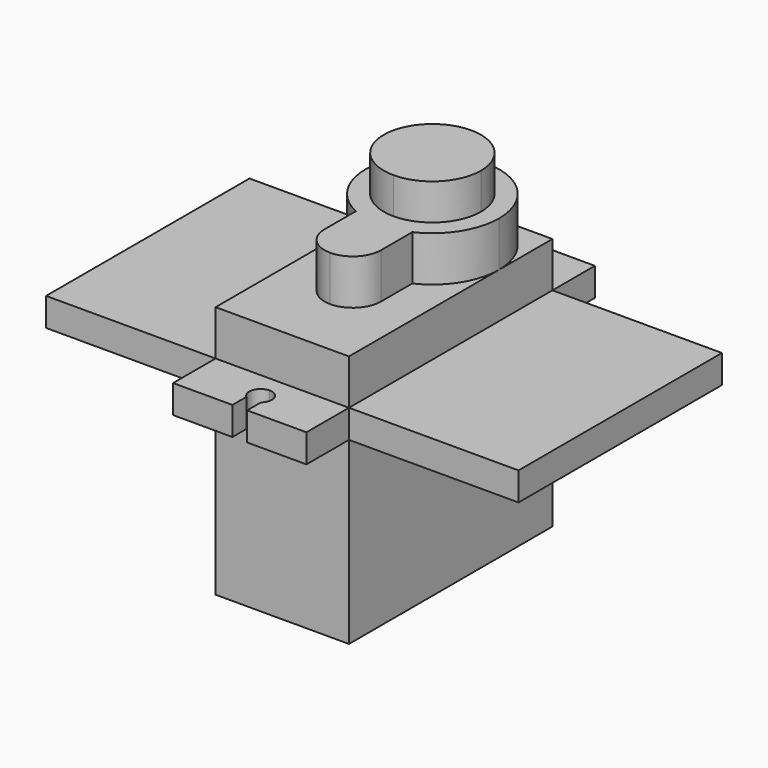
from build123d import *

# Parameters (mm, degrees)
F1_DEPTH  = 15.9
F2_DEPTH  = 2.5
F5_DEPTH  = 4
F8_DEPTH  = 4
F11_DEPTH = 3.2
F12_W     = 22.5
F12_H     = 2.5
F13_DEPTH = 15
F14_W     = 22.5
F14_H     = 2.5
F15_DEPTH = 15


with BuildPart() as f1:
    # F0 (on Top) → F1 (new body)
    with BuildSketch(Plane.XY):
        with BuildLine():
            ThreePointArc((-5.9, 27.2), (-1.728069991, 25.471930009), (0, 21.3))
            Line((0, 21.3), (0, 27.2))
            Line((0, 27.2), (-5.9, 27.2))
        make_face()
        with BuildLine():
            ThreePointArc((-11.8, 21.3), (-10.071930009, 25.471930009), (-5.9, 27.2))
            Line((-5.9, 27.2), (-11.8, 27.2))
            Line((-11.8, 27.2), (-11.8, 21.3))
        make_face()
        with BuildLine():
            Line((-3.4, 15.95), (0, 15.95))
            Line((0, 15.95), (0, 21.3))
            ThreePointArc((0, 21.3), (-0.9220486141, 18.1329824756), (-3.4, 15.9558443136))
            Line((-3.4, 15.9558443136), (-3.4, 15.95))
        make_face()
        with BuildLine():
            Line((-11.8, 21.3), (-11.8, 15.95))
            Line((-11.8, 15.95), (-8.4, 15.95))
            Line((-8.4, 15.95), (-8.4, 15.9558443136))
            ThreePointArc((-8.4, 15.9558443136), (-10.8779513859, 18.1329824756), (-11.8, 21.3))
        make_face()
        with BuildLine():
            Line((-5.9, 4.7), (0, 4.7))
            Line((0, 4.7), (0, 15.95))
            Line((0, 15.95), (-3.4, 15.95))
            Line((-3.4, 15.95), (-3.4, 12.5))
            ThreePointArc((-3.4, 12.5), (-4.132233047, 10.732233047), (-5.9, 10))
            Line((-5.9, 10), (-5.9, 4.7))
        make_face()
        with BuildLine():
            Line((-11.8, 4.7), (-5.9, 4.7))
            Line((-5.9, 4.7), (-5.9, 10))
            ThreePointArc((-5.9, 10), (-7.667766953, 10.732233047), (-8.4, 12.5))
            Line((-8.4, 12.5), (-8.4, 15.95))
            Line((-8.4, 15.95), (-11.8, 15.95))
            Line((-11.8, 15.95), (-11.8, 4.7))
        make_face()
        with BuildLine():
            ThreePointArc((-3.4, 15.9558443136), (-0.9220486141, 18.1329824756), (0, 21.3))
            ThreePointArc((0, 21.3), (-1.728069991, 25.471930009), (-5.9, 27.2))
            Line((-5.9, 27.2), (-5.9, 23.6))
            ThreePointArc((-5.9, 23.6), (-4.2736544033, 22.9263455967), (-3.6, 21.3))
            ThreePointArc((-3.6, 21.3), (-4.2736544033, 19.6736544033), (-5.9, 19))
            Line((-5.9, 19), (-5.9, 15.95))
            Line((-5.9, 15.95), (-3.4125314072, 15.95))
            ThreePointArc((-3.4125314072, 15.95), (-3.4062639915, 15.9529184857), (-3.4, 15.9558443136))
        make_face()
        with BuildLine():
            ThreePointArc((-3.6, 21.3), (-4.2736544033, 22.9263455967), (-5.9, 23.6))
            Line((-5.9, 23.6), (-5.9, 22.15))
            ThreePointArc((-5.9, 22.15), (-5.298959236, 21.901040764), (-5.05, 21.3))
            ThreePointArc((-5.05, 21.3), (-5.298959236, 20.698959236), (-5.9, 20.45))
            Line((-5.9, 20.45), (-5.9, 19))
            ThreePointArc((-5.9, 19), (-4.2736544033, 19.6736544033), (-3.6, 21.3))
        make_face()
        with BuildLine():
            Line((-5.9, 22.15), (-5.9, 23.6))
            ThreePointArc((-5.9, 23.6), (-8.2, 21.3), (-5.9, 19))
            Line((-5.9, 19), (-5.9, 20.45))
            ThreePointArc((-5.9, 20.45), (-6.75, 21.3), (-5.9, 22.15))
        make_face()
        with BuildLine():
            ThreePointArc((-5.05, 21.3), (-5.298959236, 21.901040764), (-5.9, 22.15))
            Line((-5.9, 22.15), (-5.9, 20.45))
            ThreePointArc((-5.9, 20.45), (-5.298959236, 20.698959236), (-5.05, 21.3))
        make_face()
        with BuildLine():
            Line((-5.9, 20.45), (-5.9, 22.15))
            ThreePointArc((-5.9, 22.15), (-6.75, 21.3), (-5.9, 20.45))
        make_face()
        with BuildLine():
            ThreePointArc((-8.4, 12.5), (-7.667766953, 10.732233047), (-5.9, 10))
            Line((-5.9, 10), (-5.9, 15))
            ThreePointArc((-5.9, 15), (-7.667766953, 14.267766953), (-8.4, 12.5))
        make_face()
        with BuildLine():
            Line((-5.9, 15), (-5.9, 10))
            ThreePointArc((-5.9, 10), (-4.132233047, 10.732233047), (-3.4, 12.5))
            ThreePointArc((-3.4, 12.5), (-4.132233047, 14.267766953), (-5.9, 15))
        make_face()
        with BuildLine():
            Line((-3.4, 12.5), (-3.4, 15.95))
            Line((-3.4, 15.95), (-3.4125314072, 15.95))
            ThreePointArc((-3.4125314072, 15.95), (-4.6262260797, 15.5391406891), (-5.9, 15.4))
            Line((-5.9, 15.4), (-5.9, 15))
            ThreePointArc((-5.9, 15), (-4.132233047, 14.267766953), (-3.4, 12.5))
        make_face()
        with BuildLine():
            ThreePointArc((-5.9, 15.4), (-4.6262260797, 15.5391406891), (-3.4125314072, 15.95))
            Line((-3.4125314072, 15.95), (-5.9, 15.95))
            Line((-5.9, 15.95), (-5.9, 15.4))
        make_face()
        with BuildLine():
            ThreePointArc((-8.4, 12.5), (-7.667766953, 14.267766953), (-5.9, 15))
            Line((-5.9, 15), (-5.9, 15.4))
            ThreePointArc((-5.9, 15.4), (-7.1737739203, 15.5391406891), (-8.3874685928, 15.95))
            Line((-8.3874685928, 15.95), (-8.4, 15.95))
            Line((-8.4, 15.95), (-8.4, 12.5))
        make_face()
        with BuildLine():
            Line((-5.9, 23.6), (-5.9, 27.2))
            ThreePointArc((-5.9, 27.2), (-10.071930009, 25.471930009), (-11.8, 21.3))
            ThreePointArc((-11.8, 21.3), (-10.8779513859, 18.1329824756), (-8.4, 15.9558443136))
            ThreePointArc((-8.4, 15.9558443136), (-8.3937360085, 15.9529184857), (-8.3874685928, 15.95))
            Line((-8.3874685928, 15.95), (-5.9, 15.95))
            Line((-5.9, 15.95), (-5.9, 19))
            ThreePointArc((-5.9, 19), (-8.2, 21.3), (-5.9, 23.6))
        make_face()
        with BuildLine():
            ThreePointArc((-8.3874685928, 15.95), (-7.1737739203, 15.5391406891), (-5.9, 15.4))
            Line((-5.9, 15.4), (-5.9, 15.95))
            Line((-5.9, 15.95), (-8.3874685928, 15.95))
        make_face()
    extrude(amount=-F1_DEPTH)

    # F0 (on Top) → F2 (join)
    with BuildSketch(Plane.XY):
        with BuildLine():
            ThreePointArc((-5.9, 27.2), (-1.728069991, 25.471930009), (0, 21.3))
            Line((0, 21.3), (0, 27.2))
            Line((0, 27.2), (-5.9, 27.2))
        make_face()
        with BuildLine():
            ThreePointArc((-11.8, 21.3), (-10.071930009, 25.471930009), (-5.9, 27.2))
            Line((-5.9, 27.2), (-11.8, 27.2))
            Line((-11.8, 27.2), (-11.8, 21.3))
        make_face()
        with BuildLine():
            Line((-3.4, 15.95), (0, 15.95))
            Line((0, 15.95), (0, 21.3))
            ThreePointArc((0, 21.3), (-0.9220486141, 18.1329824756), (-3.4, 15.9558443136))
            Line((-3.4, 15.9558443136), (-3.4, 15.95))
        make_face()
        with BuildLine():
            Line((-11.8, 21.3), (-11.8, 15.95))
            Line((-11.8, 15.95), (-8.4, 15.95))
            Line((-8.4, 15.95), (-8.4, 15.9558443136))
            ThreePointArc((-8.4, 15.9558443136), (-10.8779513859, 18.1329824756), (-11.8, 21.3))
        make_face()
        with BuildLine():
            Line((-5.25, 0), (0, 0))
            Line((0, 0), (0, 4.7))
            Line((0, 4.7), (-5.9, 4.7))
            Line((-5.9, 4.7), (-5.9, 3.3))
            ThreePointArc((-5.9, 3.3), (-5.1928932188, 3.0071067812), (-4.9, 2.3))
            ThreePointArc((-4.9, 2.3), (-4.9917048938, 1.8816699867), (-5.25, 1.5400657923))
            Line((-5.25, 1.5400657923), (-5.25, 0))
        make_face()
        with BuildLine():
            Line((-5.9, 3.3), (-5.9, 4.7))
            Line((-5.9, 4.7), (-11.8, 4.7))
            Line((-11.8, 4.7), (-11.8, 0))
            Line((-11.8, 0), (-6.55, 0))
            Line((-6.55, 0), (-6.55, 1.5400657923))
            ThreePointArc((-6.55, 1.5400657923), (-6.8380656181, 2.6464576398), (-5.9, 3.3))
        make_face()
        with BuildLine():
            Line((-5.9, 27.2), (0, 27.2))
            Line((0, 27.2), (0, 31.9))
            Line((0, 31.9), (-5.25, 31.9))
            Line((-5.25, 31.9), (-5.25, 30.3599342077))
            ThreePointArc((-5.25, 30.3599342077), (-4.9917048938, 30.0183300133), (-4.9, 29.6))
            ThreePointArc((-4.9, 29.6), (-5.1928932188, 28.8928932188), (-5.9, 28.6))
            Line((-5.9, 28.6), (-5.9, 27.2))
        make_face()
        with BuildLine():
            Line((-11.8, 27.2), (-5.9, 27.2))
            Line((-5.9, 27.2), (-5.9, 28.6))
            ThreePointArc((-5.9, 28.6), (-6.8380656181, 29.2535423602), (-6.55, 30.3599342077))
            Line((-6.55, 30.3599342077), (-6.55, 31.9))
            Line((-6.55, 31.9), (-11.8, 31.9))
            Line((-11.8, 31.9), (-11.8, 27.2))
        make_face()
        with BuildLine():
            Line((-5.9, 4.7), (0, 4.7))
            Line((0, 4.7), (0, 15.95))
            Line((0, 15.95), (-3.4, 15.95))
            Line((-3.4, 15.95), (-3.4, 12.5))
            ThreePointArc((-3.4, 12.5), (-4.132233047, 10.732233047), (-5.9, 10))
            Line((-5.9, 10), (-5.9, 4.7))
        make_face()
        with BuildLine():
            Line((-11.8, 4.7), (-5.9, 4.7))
            Line((-5.9, 4.7), (-5.9, 10))
            ThreePointArc((-5.9, 10), (-7.667766953, 10.732233047), (-8.4, 12.5))
            Line((-8.4, 12.5), (-8.4, 15.95))
            Line((-8.4, 15.95), (-11.8, 15.95))
            Line((-11.8, 15.95), (-11.8, 4.7))
        make_face()
        with BuildLine():
            ThreePointArc((-3.4, 15.9558443136), (-0.9220486141, 18.1329824756), (0, 21.3))
            ThreePointArc((0, 21.3), (-1.728069991, 25.471930009), (-5.9, 27.2))
            Line((-5.9, 27.2), (-5.9, 23.6))
            ThreePointArc((-5.9, 23.6), (-4.2736544033, 22.9263455967), (-3.6, 21.3))
            ThreePointArc((-3.6, 21.3), (-4.2736544033, 19.6736544033), (-5.9, 19))
            Line((-5.9, 19), (-5.9, 15.95))
            Line((-5.9, 15.95), (-3.4125314072, 15.95))
            ThreePointArc((-3.4125314072, 15.95), (-3.4062639915, 15.9529184857), (-3.4, 15.9558443136))
        make_face()
        with BuildLine():
            Line((-5.9, 23.6), (-5.9, 27.2))
            ThreePointArc((-5.9, 27.2), (-10.071930009, 25.471930009), (-11.8, 21.3))
            ThreePointArc((-11.8, 21.3), (-10.8779513859, 18.1329824756), (-8.4, 15.9558443136))
            ThreePointArc((-8.4, 15.9558443136), (-8.3937360085, 15.9529184857), (-8.3874685928, 15.95))
            Line((-8.3874685928, 15.95), (-5.9, 15.95))
            Line((-5.9, 15.95), (-5.9, 19))
            ThreePointArc((-5.9, 19), (-8.2, 21.3), (-5.9, 23.6))
        make_face()
        with BuildLine():
            ThreePointArc((-5.9, 15.4), (-4.6262260797, 15.5391406891), (-3.4125314072, 15.95))
            Line((-3.4125314072, 15.95), (-5.9, 15.95))
            Line((-5.9, 15.95), (-5.9, 15.4))
        make_face()
        with BuildLine():
            ThreePointArc((-8.3874685928, 15.95), (-7.1737739203, 15.5391406891), (-5.9, 15.4))
            Line((-5.9, 15.4), (-5.9, 15.95))
            Line((-5.9, 15.95), (-8.3874685928, 15.95))
        make_face()
        with BuildLine():
            Line((-5.9, 15), (-5.9, 10))
            ThreePointArc((-5.9, 10), (-4.132233047, 10.732233047), (-3.4, 12.5))
            ThreePointArc((-3.4, 12.5), (-4.132233047, 14.267766953), (-5.9, 15))
        make_face()
        with BuildLine():
            Line((-5.9, 22.15), (-5.9, 23.6))
            ThreePointArc((-5.9, 23.6), (-8.2, 21.3), (-5.9, 19))
            Line((-5.9, 19), (-5.9, 20.45))
            ThreePointArc((-5.9, 20.45), (-6.75, 21.3), (-5.9, 22.15))
        make_face()
        with BuildLine():
            Line((-3.4, 12.5), (-3.4, 15.95))
            Line((-3.4, 15.95), (-3.4125314072, 15.95))
            ThreePointArc((-3.4125314072, 15.95), (-4.6262260797, 15.5391406891), (-5.9, 15.4))
            Line((-5.9, 15.4), (-5.9, 15))
            ThreePointArc((-5.9, 15), (-4.132233047, 14.267766953), (-3.4, 12.5))
        make_face()
        with BuildLine():
            ThreePointArc((-3.6, 21.3), (-4.2736544033, 22.9263455967), (-5.9, 23.6))
            Line((-5.9, 23.6), (-5.9, 22.15))
            ThreePointArc((-5.9, 22.15), (-5.298959236, 21.901040764), (-5.05, 21.3))
            ThreePointArc((-5.05, 21.3), (-5.298959236, 20.698959236), (-5.9, 20.45))
            Line((-5.9, 20.45), (-5.9, 19))
            ThreePointArc((-5.9, 19), (-4.2736544033, 19.6736544033), (-3.6, 21.3))
        make_face()
        with BuildLine():
            ThreePointArc((-8.4, 12.5), (-7.667766953, 10.732233047), (-5.9, 10))
            Line((-5.9, 10), (-5.9, 15))
            ThreePointArc((-5.9, 15), (-7.667766953, 14.267766953), (-8.4, 12.5))
        make_face()
        with BuildLine():
            ThreePointArc((-8.4, 12.5), (-7.667766953, 14.267766953), (-5.9, 15))
            Line((-5.9, 15), (-5.9, 15.4))
            ThreePointArc((-5.9, 15.4), (-7.1737739203, 15.5391406891), (-8.3874685928, 15.95))
            Line((-8.3874685928, 15.95), (-8.4, 15.95))
            Line((-8.4, 15.95), (-8.4, 12.5))
        make_face()
        with BuildLine():
            Line((-8.4, 15.9558443136), (-8.4, 15.95))
            Line((-8.4, 15.95), (-8.3874685928, 15.95))
            ThreePointArc((-8.3874685928, 15.95), (-8.3937360085, 15.9529184857), (-8.4, 15.9558443136))
        make_face()
        with BuildLine():
            Line((-3.4125314072, 15.95), (-3.4, 15.95))
            Line((-3.4, 15.95), (-3.4, 15.9558443136))
            ThreePointArc((-3.4, 15.9558443136), (-3.4062639915, 15.9529184857), (-3.4125314072, 15.95))
        make_face()
        with BuildLine():
            ThreePointArc((-5.05, 21.3), (-5.298959236, 21.901040764), (-5.9, 22.15))
            Line((-5.9, 22.15), (-5.9, 20.45))
            ThreePointArc((-5.9, 20.45), (-5.298959236, 20.698959236), (-5.05, 21.3))
        make_face()
        with BuildLine():
            Line((-5.9, 20.45), (-5.9, 22.15))
            ThreePointArc((-5.9, 22.15), (-6.75, 21.3), (-5.9, 20.45))
        make_face()
    extrude(amount=F2_DEPTH)

    # F4 (on face) → F5 (join)
    with BuildSketch(Plane.XY.offset(2.5)):
        with BuildLine():
            ThreePointArc((-5.9, 27.2), (-1.728069991, 25.471930009), (0, 21.3))
            Line((0, 21.3), (0, 27.2))
            Line((0, 27.2), (-5.9, 27.2))
        make_face()
        with BuildLine():
            ThreePointArc((-11.8, 21.3), (-10.071930009, 25.471930009), (-5.9, 27.2))
            Line((-5.9, 27.2), (-11.8, 27.2))
            Line((-11.8, 27.2), (-11.8, 21.3))
        make_face()
        with BuildLine():
            Line((-3.4, 15.95), (0, 15.95))
            Line((0, 15.95), (0, 21.3))
            ThreePointArc((0, 21.3), (-0.9220486141, 18.1329824756), (-3.4, 15.9558443136))
            Line((-3.4, 15.9558443136), (-3.4, 15.95))
        make_face()
        with BuildLine():
            Line((-11.8, 21.3), (-11.8, 15.95))
            Line((-11.8, 15.95), (-8.4, 15.95))
            Line((-8.4, 15.95), (-8.4, 15.9558443136))
            ThreePointArc((-8.4, 15.9558443136), (-10.8779513859, 18.1329824756), (-11.8, 21.3))
        make_face()
        with BuildLine():
            Line((-5.9, 4.7), (0, 4.7))
            Line((0, 4.7), (0, 15.95))
            Line((0, 15.95), (-3.4, 15.95))
            Line((-3.4, 15.95), (-3.4, 12.5))
            ThreePointArc((-3.4, 12.5), (-4.132233047, 10.732233047), (-5.9, 10))
            Line((-5.9, 10), (-5.9, 4.7))
        make_face()
        with BuildLine():
            Line((-11.8, 4.7), (-5.9, 4.7))
            Line((-5.9, 4.7), (-5.9, 10))
            ThreePointArc((-5.9, 10), (-7.667766953, 10.732233047), (-8.4, 12.5))
            Line((-8.4, 12.5), (-8.4, 15.95))
            Line((-8.4, 15.95), (-11.8, 15.95))
            Line((-11.8, 15.95), (-11.8, 4.7))
        make_face()
        with BuildLine():
            ThreePointArc((-3.4, 15.9558443136), (-0.9220486141, 18.1329824756), (0, 21.3))
            ThreePointArc((0, 21.3), (-1.728069991, 25.471930009), (-5.9, 27.2))
            Line((-5.9, 27.2), (-5.9, 23.6))
            ThreePointArc((-5.9, 23.6), (-4.2736544033, 22.9263455967), (-3.6, 21.3))
            ThreePointArc((-3.6, 21.3), (-4.2736544033, 19.6736544033), (-5.9, 19))
            Line((-5.9, 19), (-5.9, 15.95))
            Line((-5.9, 15.95), (-3.4125314072, 15.95))
            ThreePointArc((-3.4125314072, 15.95), (-3.4062639915, 15.9529184857), (-3.4, 15.9558443136))
        make_face()
        with BuildLine():
            Line((-5.9, 23.6), (-5.9, 27.2))
            ThreePointArc((-5.9, 27.2), (-10.071930009, 25.471930009), (-11.8, 21.3))
            ThreePointArc((-11.8, 21.3), (-10.8779513859, 18.1329824756), (-8.4, 15.9558443136))
            ThreePointArc((-8.4, 15.9558443136), (-8.3937360085, 15.9529184857), (-8.3874685928, 15.95))
            Line((-8.3874685928, 15.95), (-5.9, 15.95))
            Line((-5.9, 15.95), (-5.9, 19))
            ThreePointArc((-5.9, 19), (-8.2, 21.3), (-5.9, 23.6))
        make_face()
        with BuildLine():
            Line((-5.9, 15), (-5.9, 10))
            ThreePointArc((-5.9, 10), (-4.132233047, 10.732233047), (-3.4, 12.5))
            ThreePointArc((-3.4, 12.5), (-4.132233047, 14.267766953), (-5.9, 15))
        make_face()
        with BuildLine():
            ThreePointArc((-8.4, 12.5), (-7.667766953, 10.732233047), (-5.9, 10))
            Line((-5.9, 10), (-5.9, 15))
            ThreePointArc((-5.9, 15), (-7.667766953, 14.267766953), (-8.4, 12.5))
        make_face()
        with BuildLine():
            ThreePointArc((-8.4, 12.5), (-7.667766953, 14.267766953), (-5.9, 15))
            Line((-5.9, 15), (-5.9, 15.4))
            ThreePointArc((-5.9, 15.4), (-7.1737739203, 15.5391406891), (-8.3874685928, 15.95))
            Line((-8.3874685928, 15.95), (-8.4, 15.95))
            Line((-8.4, 15.95), (-8.4, 12.5))
        make_face()
        with BuildLine():
            Line((-3.4, 12.5), (-3.4, 15.95))
            Line((-3.4, 15.95), (-3.4125314072, 15.95))
            ThreePointArc((-3.4125314072, 15.95), (-4.6262260797, 15.5391406891), (-5.9, 15.4))
            Line((-5.9, 15.4), (-5.9, 15))
            ThreePointArc((-5.9, 15), (-4.132233047, 14.267766953), (-3.4, 12.5))
        make_face()
        with BuildLine():
            ThreePointArc((-5.9, 15.4), (-4.6262260797, 15.5391406891), (-3.4125314072, 15.95))
            Line((-3.4125314072, 15.95), (-5.9, 15.95))
            Line((-5.9, 15.95), (-5.9, 15.4))
        make_face()
        with BuildLine():
            ThreePointArc((-8.3874685928, 15.95), (-7.1737739203, 15.5391406891), (-5.9, 15.4))
            Line((-5.9, 15.4), (-5.9, 15.95))
            Line((-5.9, 15.95), (-8.3874685928, 15.95))
        make_face()
        with BuildLine():
            Line((-5.9, 22.25), (-5.9, 23.6))
            ThreePointArc((-5.9, 23.6), (-8.2, 21.3), (-5.9, 19))
            Line((-5.9, 19), (-5.9, 20.35))
            ThreePointArc((-5.9, 20.35), (-6.85, 21.3), (-5.9, 22.25))
        make_face()
        with BuildLine():
            ThreePointArc((-3.6, 21.3), (-4.2736544033, 22.9263455967), (-5.9, 23.6))
            Line((-5.9, 23.6), (-5.9, 22.25))
            ThreePointArc((-5.9, 22.25), (-5.2282485579, 21.9717514421), (-4.95, 21.3))
            ThreePointArc((-4.95, 21.3), (-5.2282485579, 20.6282485579), (-5.9, 20.35))
            Line((-5.9, 20.35), (-5.9, 19))
            ThreePointArc((-5.9, 19), (-4.2736544033, 19.6736544033), (-3.6, 21.3))
        make_face()
        with BuildLine():
            Line((-5.9, 20.35), (-5.9, 22.25))
            ThreePointArc((-5.9, 22.25), (-6.85, 21.3), (-5.9, 20.35))
        make_face()
        with BuildLine():
            ThreePointArc((-4.95, 21.3), (-5.2282485579, 21.9717514421), (-5.9, 22.25))
            Line((-5.9, 22.25), (-5.9, 20.35))
            ThreePointArc((-5.9, 20.35), (-5.2282485579, 20.6282485579), (-4.95, 21.3))
        make_face()
    extrude(amount=F5_DEPTH)

    # F7 (on face) → F8 (join)
    with BuildSketch(Plane.XY.offset(6.5)):
        with BuildLine():
            Line((-5.9, 23.6), (-5.9, 27.2))
            ThreePointArc((-5.9, 27.2), (-10.071930009, 25.471930009), (-11.8, 21.3))
            ThreePointArc((-11.8, 21.3), (-10.8779513859, 18.1329824756), (-8.4, 15.9558443136))
            ThreePointArc((-8.4, 15.9558443136), (-8.3937360085, 15.9529184857), (-8.3874685928, 15.95))
            Line((-8.3874685928, 15.95), (-5.9, 15.95))
            Line((-5.9, 15.95), (-5.9, 19))
            ThreePointArc((-5.9, 19), (-8.2, 21.3), (-5.9, 23.6))
        make_face()
        with BuildLine():
            ThreePointArc((-3.4, 15.9558443136), (-0.9220486141, 18.1329824756), (0, 21.3))
            ThreePointArc((0, 21.3), (-1.728069991, 25.471930009), (-5.9, 27.2))
            Line((-5.9, 27.2), (-5.9, 23.6))
            ThreePointArc((-5.9, 23.6), (-4.2736544033, 22.9263455967), (-3.6, 21.3))
            ThreePointArc((-3.6, 21.3), (-4.2736544033, 19.6736544033), (-5.9, 19))
            Line((-5.9, 19), (-5.9, 15.95))
            Line((-5.9, 15.95), (-3.4125314072, 15.95))
            ThreePointArc((-3.4125314072, 15.95), (-3.4062639915, 15.9529184857), (-3.4, 15.9558443136))
        make_face()
        with BuildLine():
            ThreePointArc((-8.3874685928, 15.95), (-7.1737739203, 15.5391406891), (-5.9, 15.4))
            Line((-5.9, 15.4), (-5.9, 15.95))
            Line((-5.9, 15.95), (-8.3874685928, 15.95))
        make_face()
        with BuildLine():
            ThreePointArc((-5.9, 15.4), (-4.6262260797, 15.5391406891), (-3.4125314072, 15.95))
            Line((-3.4125314072, 15.95), (-5.9, 15.95))
            Line((-5.9, 15.95), (-5.9, 15.4))
        make_face()
        with BuildLine():
            ThreePointArc((-8.4, 12.5), (-7.667766953, 14.267766953), (-5.9, 15))
            Line((-5.9, 15), (-5.9, 15.4))
            ThreePointArc((-5.9, 15.4), (-7.1737739203, 15.5391406891), (-8.3874685928, 15.95))
            Line((-8.3874685928, 15.95), (-8.4, 15.95))
            Line((-8.4, 15.95), (-8.4, 12.5))
        make_face()
        with BuildLine():
            Line((-3.4, 12.5), (-3.4, 15.95))
            Line((-3.4, 15.95), (-3.4125314072, 15.95))
            ThreePointArc((-3.4125314072, 15.95), (-4.6262260797, 15.5391406891), (-5.9, 15.4))
            Line((-5.9, 15.4), (-5.9, 15))
            ThreePointArc((-5.9, 15), (-4.132233047, 14.267766953), (-3.4, 12.5))
        make_face()
        with BuildLine():
            ThreePointArc((-8.4, 12.5), (-7.667766953, 10.732233047), (-5.9, 10))
            Line((-5.9, 10), (-5.9, 15))
            ThreePointArc((-5.9, 15), (-7.667766953, 14.267766953), (-8.4, 12.5))
        make_face()
        with BuildLine():
            Line((-5.9, 15), (-5.9, 10))
            ThreePointArc((-5.9, 10), (-4.132233047, 10.732233047), (-3.4, 12.5))
            ThreePointArc((-3.4, 12.5), (-4.132233047, 14.267766953), (-5.9, 15))
        make_face()
        with BuildLine():
            ThreePointArc((-3.6, 21.3), (-4.2736544033, 22.9263455967), (-5.9, 23.6))
            Line((-5.9, 23.6), (-5.9, 22.15))
            ThreePointArc((-5.9, 22.15), (-5.298959236, 21.901040764), (-5.05, 21.3))
            ThreePointArc((-5.05, 21.3), (-5.298959236, 20.698959236), (-5.9, 20.45))
            Line((-5.9, 20.45), (-5.9, 19))
            ThreePointArc((-5.9, 19), (-4.2736544033, 19.6736544033), (-3.6, 21.3))
        make_face()
        with BuildLine():
            Line((-5.9, 22.15), (-5.9, 23.6))
            ThreePointArc((-5.9, 23.6), (-8.2, 21.3), (-5.9, 19))
            Line((-5.9, 19), (-5.9, 20.45))
            ThreePointArc((-5.9, 20.45), (-6.75, 21.3), (-5.9, 22.15))
        make_face()
        with BuildLine():
            Line((-5.9, 20.45), (-5.9, 22.15))
            ThreePointArc((-5.9, 22.15), (-6.75, 21.3), (-5.9, 20.45))
        make_face()
        with BuildLine():
            ThreePointArc((-5.05, 21.3), (-5.298959236, 21.901040764), (-5.9, 22.15))
            Line((-5.9, 22.15), (-5.9, 20.45))
            ThreePointArc((-5.9, 20.45), (-5.298959236, 20.698959236), (-5.05, 21.3))
        make_face()
    extrude(amount=F8_DEPTH)

    # F10 (on offset) → F11 (join)
    with BuildSketch(Plane.XY.offset(10.5)):
        with BuildLine():
            Line((-5.9, 22.15), (-5.9, 25.6))
            ThreePointArc((-5.9, 25.6), (-10.2, 21.3), (-5.9, 17))
            Line((-5.9, 17), (-5.9, 20.45))
            ThreePointArc((-5.9, 20.45), (-6.75, 21.3), (-5.9, 22.15))
        make_face()
        with BuildLine():
            ThreePointArc((-1.6, 21.3), (-2.8594408409, 24.3405591591), (-5.9, 25.6))
            Line((-5.9, 25.6), (-5.9, 22.15))
            ThreePointArc((-5.9, 22.15), (-5.298959236, 21.901040764), (-5.05, 21.3))
            ThreePointArc((-5.05, 21.3), (-5.298959236, 20.698959236), (-5.9, 20.45))
            Line((-5.9, 20.45), (-5.9, 17))
            ThreePointArc((-5.9, 17), (-2.8594408409, 18.2594408409), (-1.6, 21.3))
        make_face()
        with BuildLine():
            ThreePointArc((-5.05, 21.3), (-5.298959236, 21.901040764), (-5.9, 22.15))
            Line((-5.9, 22.15), (-5.9, 20.45))
            ThreePointArc((-5.9, 20.45), (-5.298959236, 20.698959236), (-5.05, 21.3))
        make_face()
        with BuildLine():
            Line((-5.9, 20.45), (-5.9, 22.15))
            ThreePointArc((-5.9, 22.15), (-6.75, 21.3), (-5.9, 20.45))
        make_face()
    extrude(amount=F11_DEPTH)

    # F12 (on face) → F13 (join)
    with BuildSketch(Plane.YZ):
        with Locations((15.95, 1.25)):
            Rectangle(F12_W, F12_H)
    extrude(amount=F13_DEPTH)

    # F14 (on face) → F15 (join)
    with BuildSketch(Plane(origin=(-11.8, 0, 0), x_dir=(0, -1, 0), z_dir=(-1, 0, 0))):
        with Locations((-15.95, 1.25)):
            Rectangle(F14_W, F14_H)
    extrude(amount=F15_DEPTH)


solid = f1.part
